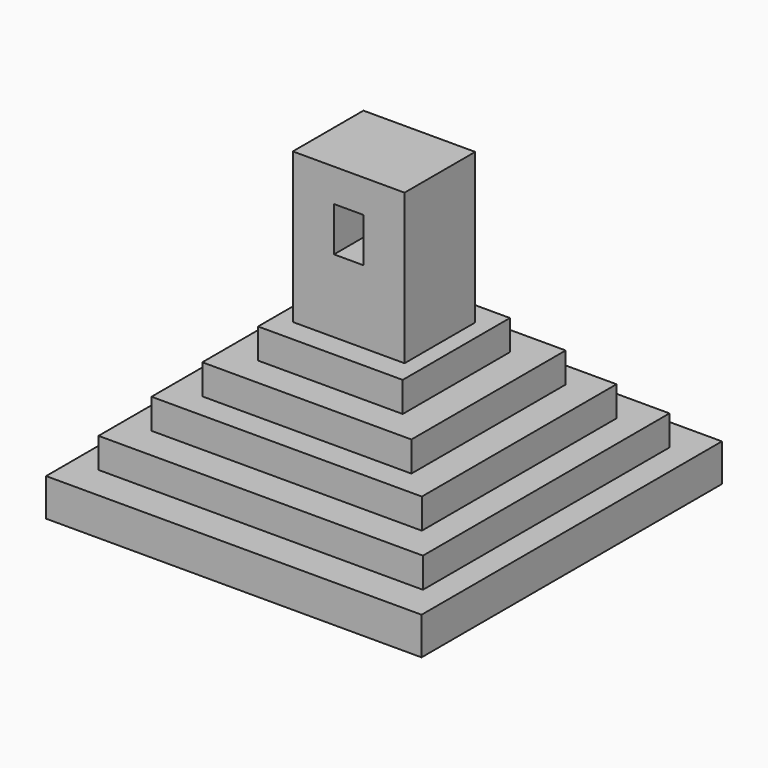
from build123d import *

# Parameters (mm, degrees)
F0_W      = 63.5
F0_H      = 63.5
F1_DEPTH  = 6.35
F2_W      = 54.863996
F2_H      = 52.120802
F3_DEPTH  = 5.08
F4_W      = 45.72
F4_H      = 41.148004
F5_DEPTH  = 5.08
F6_W      = 35.356802
F6_H      = 32.613602
F7_DEPTH  = 5.08
F8_W      = 24.461082
F8_H      = 22.671008
F9_DEPTH  = 5.08
F10_W     = 18.8976
F10_H     = 14.9352
F11_DEPTH = 25.4
F12_W     = 4.960672
F12_H     = 7.49556
F13_DEPTH = 39.37
F14_W     = 2.972535
F14_H     = 6.727309
F15_DEPTH = 2.54


with BuildPart() as f1:
    # F0 (on Top) → F1 (new body)
    with BuildSketch(Plane.XY):
        Rectangle(F0_W, F0_H)
    extrude(amount=F1_DEPTH)

    # F2 (on face) → F3 (join)
    with BuildSketch(Plane.XY.offset(6.35)):
        Rectangle(F2_W, F2_H)
    extrude(amount=F3_DEPTH)

    # F4 (on face) → F5 (join)
    with BuildSketch(Plane.XY.offset(11.43)):
        Rectangle(F4_W, F4_H)
    extrude(amount=F5_DEPTH)

    # F6 (on face) → F7 (join)
    with BuildSketch(Plane.XY.offset(16.51)):
        Rectangle(F6_W, F6_H)
    extrude(amount=F7_DEPTH)

    # F8 (on face) → F9 (join)
    with BuildSketch(Plane.XY.offset(21.59)):
        Rectangle(F8_W, F8_H)
    extrude(amount=F9_DEPTH)

    # F10 (on face) → F11 (join)
    with BuildSketch(Plane.XY.offset(26.67)):
        Rectangle(F10_W, F10_H)
    extrude(amount=F11_DEPTH)

    # F12 (on face) → F13 (cut)
    with BuildSketch(Plane.XZ.offset(7.4676)):
        with Locations((0, 42.749591)):
            Rectangle(F12_W, F12_H)
    extrude(amount=-F13_DEPTH, mode=Mode.SUBTRACT)

    # F14 (on face) → F15 (cut)
    with BuildSketch(Plane(origin=(-9.4488, 0, 0), x_dir=(0, -1, 0), z_dir=(-1, 0, 0))):
        with Locations((-0.047928, 30.033654)):
            Rectangle(F14_W, F14_H)
    extrude(amount=-F15_DEPTH, mode=Mode.SUBTRACT)


solid = f1.part
